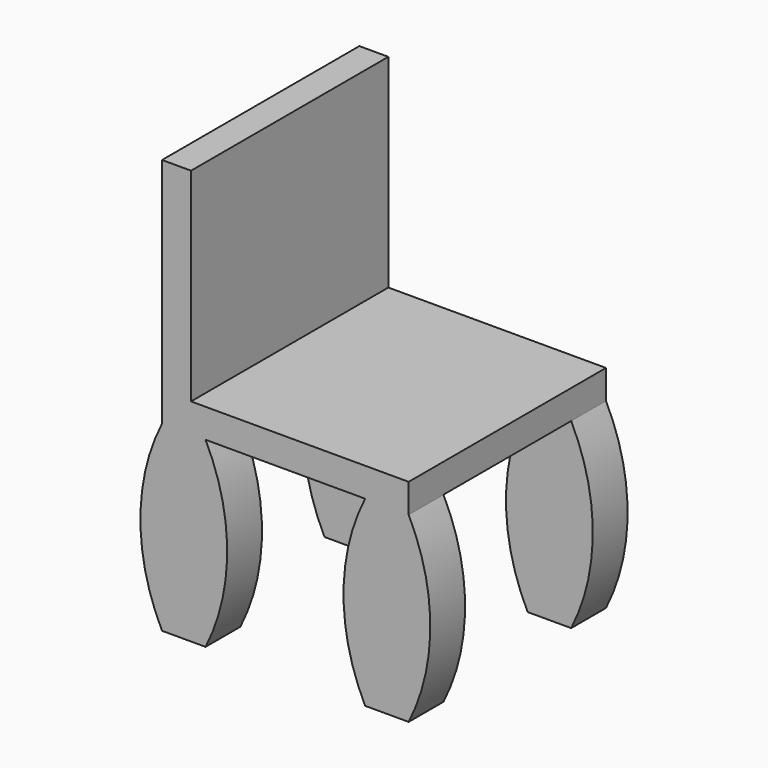
from build123d import *

# Parameters (mm, degrees)
F1_DEPTH  = 7.5
F5_DEPTH  = 10
F6_DEPTH  = 70
F7_W      = 15
F7_H      = 10
F8_DEPTH  = 70
F9_DEPTH  = 70
F10_W     = 10
F10_H     = 85
F11_DEPTH = 70


with BuildPart() as f1:
    # F0 (on Front) → F1 (new body, symmetric)
    with BuildSketch(Plane.XZ):
        with BuildLine():
            ThreePointArc((-27.5296741368, 14.9347687151), (-34.9790626376, -16.4884870212), (-27.5296741368, -47.9117427575))
            Line((-27.5296741368, -47.9117427575), (-12.5296741368, -47.9117427575))
            ThreePointArc((-12.5296741368, -47.9117427575), (-5.0802856361, -16.4884870212), (-12.5296741368, 14.9347687151))
            Line((-12.5296741368, 14.9347687151), (-27.5296741368, 14.9347687151))
        make_face()
    extrude(amount=F1_DEPTH, both=True)


with BuildPart() as f2_1:
    # F2: copy of F1
    add(f1.part.moved(Location((70, 0, 0))))


with BuildPart() as f3_1:
    # F3: copy of F1
    add(f1.part.moved(Location((0, 70, 0))))


with BuildPart() as f4_1:
    # F4: copy of F2_1
    add(f2_1.part.moved(Location((0, 70, 0))))


with BuildPart() as f1_1:
    add(f1.part)

    # F5 (add): a face of the model
    f5_faces = [f1_1.faces().sort_by_distance(p)[0] for p in [
        (-20.0296741368, 0, 14.9347687151),
    ]]
    extrude(f5_faces, amount=F5_DEPTH)

    # F6 (add): a face of the model
    f6_faces = [f1_1.faces().sort_by_distance(p)[0] for p in [
        (-12.5296741368, 0, 19.9347687151),
    ]]

    add(f2_1.part)  # F6 merges F2_1
    extrude(f6_faces, amount=F6_DEPTH)

    add(f4_1.part)  # F8 merges F4_1
    # F7 (on face) → F8 (join)
    with BuildSketch(Plane(origin=(0, 7.5, 0), x_dir=(-1, 0, 0), z_dir=(0, 1, 0))):
        with Locations((-49.9703258632, 19.9347687151)):
            Rectangle(F7_W, F7_H)
    extrude(amount=F8_DEPTH)

    # F9 (add): a face of the model
    f9_faces = [f1_1.faces().sort_by_distance(p)[0] for p in [
        (42.4703258632, 42.5, 19.9347687151),
    ]]

    add(f3_1.part)  # F9 merges F3_1
    extrude(f9_faces, amount=F9_DEPTH)

    # F10 (on face) → F11 (join)
    with BuildSketch(Plane.XY.offset(24.9347687151)):
        with Locations((-22.5296741368, 35)):
            Rectangle(F10_W, F10_H)
    extrude(amount=F11_DEPTH)


solid = f1_1.part
